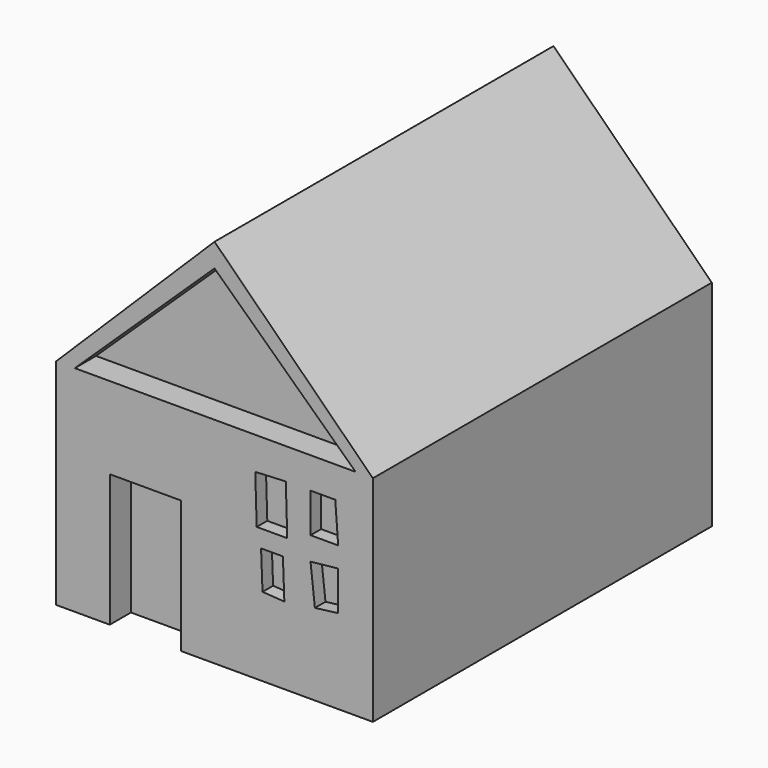
from build123d import *

# Parameters (mm, degrees)
PAD_DEPTH       = 80
SKETCH001_W     = 13.46115
SKETCH001_H     = 25.548716
POCKET_DEPTH    = 5
POCKET001_DEPTH = 5
POCKET002_DEPTH = 2.5
POCKET003_DEPTH = 2.5


with BuildPart() as part:
    # Sketch → Pad (new body)
    with BuildSketch(Plane.XZ):
        Polygon((0, 29.595964), (-29.898989, 0), (-29.898989, -40.505043), (29.898993, -40.505043), (29.898993, 0), align=None)
    extrude(amount=PAD_DEPTH)

    # Sketch001 (on Face7 of Pad) → Pocket (cut)
    with BuildSketch(Plane.XZ.offset(80)):
        with Locations((-13.049075, -28.256087)):
            Rectangle(SKETCH001_W, SKETCH001_H)
    extrude(amount=-POCKET_DEPTH, mode=Mode.SUBTRACT)

    # Sketch002 (on Face5 of Pocket) → Pocket001 (cut)
    with BuildSketch(Plane.XZ.offset(80)):
        Polygon((0, 25.160156), (-26.375223, 0), (26.642376, 0), align=None)
    extrude(amount=-POCKET001_DEPTH, mode=Mode.SUBTRACT)

    # Sketch004 (on Face5 of Pocket001) → Pocket002 (cut)
    with BuildSketch(Plane.XZ.offset(80)):
        Polygon((23.345951, -13.298216), (18.126602, -13.298216), (18.126602, -5.881243), (22.796553, -5.881243), align=None)
        Polygon((8.786701, -18.517565), (12.907252, -18.517565), (13.181961, -25.934531), (9.061434, -25.659827), align=None)
        Polygon((18.126602, -17.693453), (18.950702, -25.110434), (23.345937, -24.561026), (23.345937, -17.144047), align=None)
    extrude(amount=-POCKET002_DEPTH, mode=Mode.SUBTRACT)

    # Sketch003 (on Face5 of Pocket001) → Pocket003 (cut)
    with BuildSketch(Plane.XZ.offset(80)):
        Polygon((7.687895, -6.155951), (7.962603, -15.221137), (13.731359, -15.221137), (13.456652, -5.881243), align=None)
    extrude(amount=-POCKET003_DEPTH, mode=Mode.SUBTRACT)


solid = part.part
